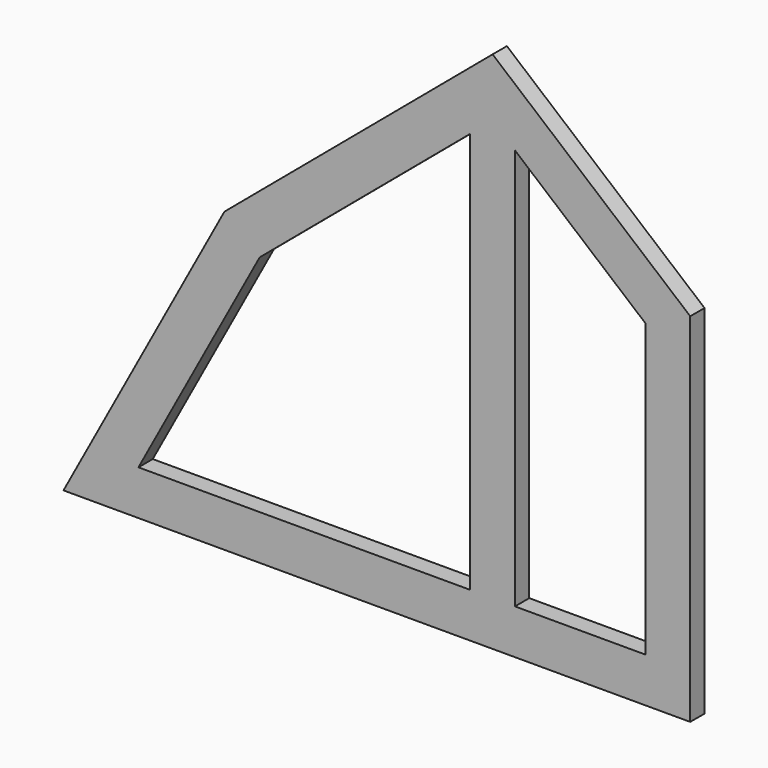
from build123d import *

# Parameters (mm, degrees)
F1_DEPTH = 2


with BuildPart() as f1:
    # F0 (on Front) → F1 (new body)
    with BuildSketch(Plane.XZ):
        Polygon((-31.935285, 51.427654), (-54.041285, 70.032309), (-84.041285, 44.783976), (-102.041285, 11.482309), (-31.935285, 11.482309), align=None)
        Polygon((-56.541285, 16.482309), (-93.655068, 16.482309), (-80.094596, 41.570438), (-56.541285, 61.393166), align=None, mode=Mode.SUBTRACT)
        Polygon((-36.935285, 49.100595), (-36.935285, 16.482309), (-51.541285, 16.482309), (-51.541285, 61.393166), align=None, mode=Mode.SUBTRACT)
    extrude(amount=F1_DEPTH)


solid = f1.part
